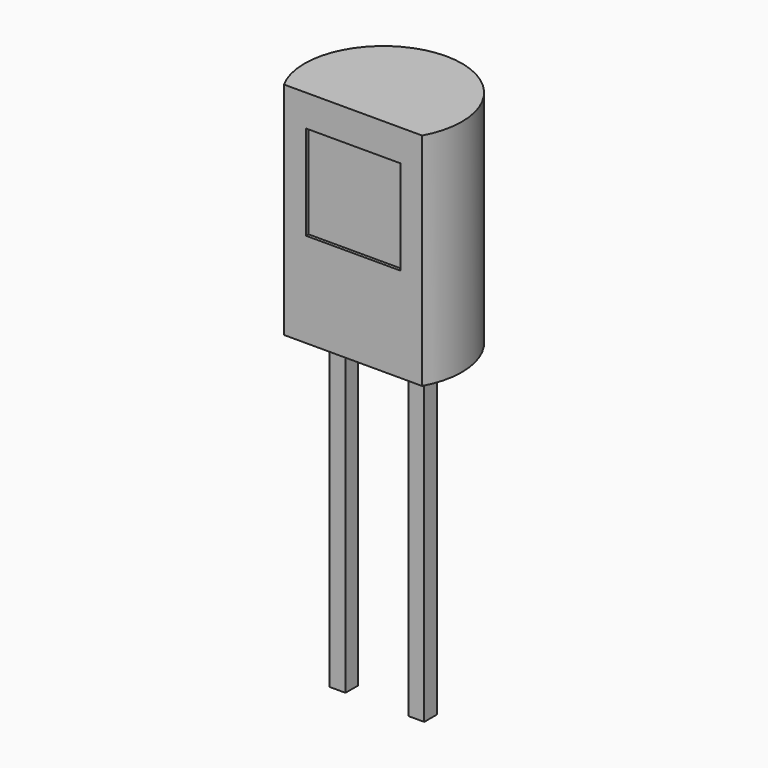
from build123d import *

# Parameters (mm, degrees)
PAD003_DEPTH    = 7
SKETCH015_W     = 0.5
SKETCH015_H     = 0.5
PAD004_DEPTH    = 10
SKETCH016_W     = 3
SKETCH016_H     = 3
POCKET002_DEPTH = 0.1


with BuildPart() as part:
    # Sketch014 → Pad003 (new body)
    with BuildSketch(Plane.XY):
        with BuildLine():
            ThreePointArc((2.193171, -1.2), (0, 2.5), (-2.193171, -1.2))
            Line((-2.193171, -1.2), (2.193171, -1.2))
        make_face()
    extrude(amount=PAD003_DEPTH)

    # Sketch015 (on Face3 of Pad003) → Pad004 (join)
    with BuildSketch(Plane(origin=(0, 0, 0), x_dir=(1, 0, 0), z_dir=(0, 0, -1))):
        with Locations((-1.25, 0)):
            Rectangle(SKETCH015_W, SKETCH015_H)
        with Locations((1.25, 0)):
            Rectangle(SKETCH015_W, SKETCH015_H)
    extrude(amount=PAD004_DEPTH)

    # Sketch016 (on Face2 of Pad004) → Pocket002 (cut)
    with BuildSketch(Plane.XZ.offset(1.2)):
        with Locations((0, 4.5)):
            Rectangle(SKETCH016_W, SKETCH016_H)
    extrude(amount=-POCKET002_DEPTH, mode=Mode.SUBTRACT)


solid = part.part
